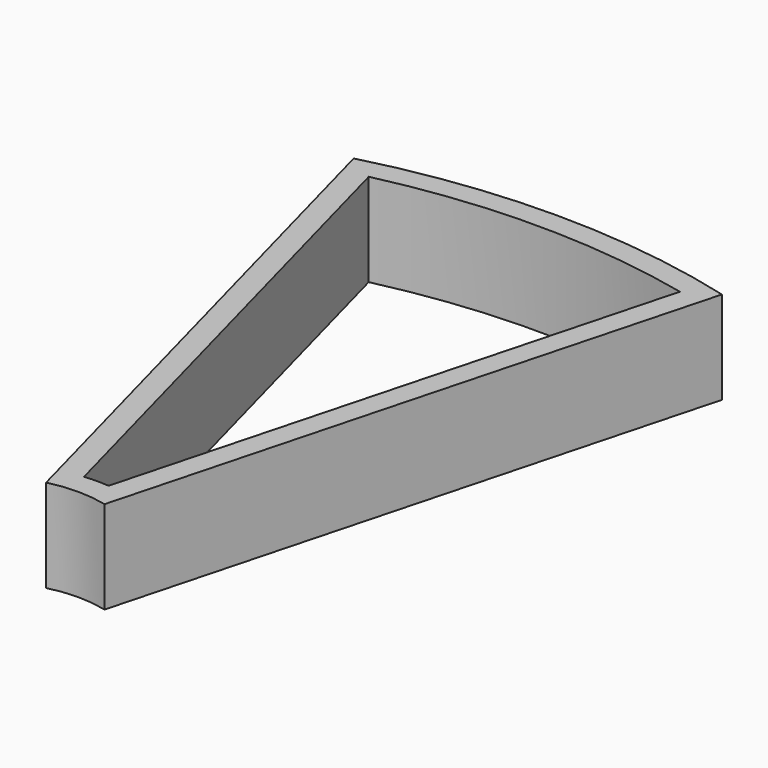
from build123d import *

# Parameters (mm, degrees)
F1_DEPTH = 25.4


with BuildPart() as f1:
    # F0 (on Top) → F1 (new body)
    with BuildSketch(Plane.XY):
        with BuildLine():
            ThreePointArc((-8.001, 32.035986), (0, 33.02), (8.001, 32.035986))
            Line((8.001, 32.035986), (50.404359, 190.287475))
            ThreePointArc((50.404359, 190.287475), (0, 196.85), (-50.404359, 190.287475))
            Line((-50.404359, 190.287475), (-8.001, 32.035986))
        make_face()
        with BuildLine():
            Line((42.594961, 185.676922), (3.353793, 39.226891))
            ThreePointArc((3.353793, 39.226891), (0, 39.37), (-3.353793, 39.226891))
            Line((-3.353793, 39.226891), (-42.594961, 185.676922))
            ThreePointArc((-42.594961, 185.676922), (0, 190.5), (42.594961, 185.676922))
        make_face(mode=Mode.SUBTRACT)
    extrude(amount=F1_DEPTH)


solid = f1.part
